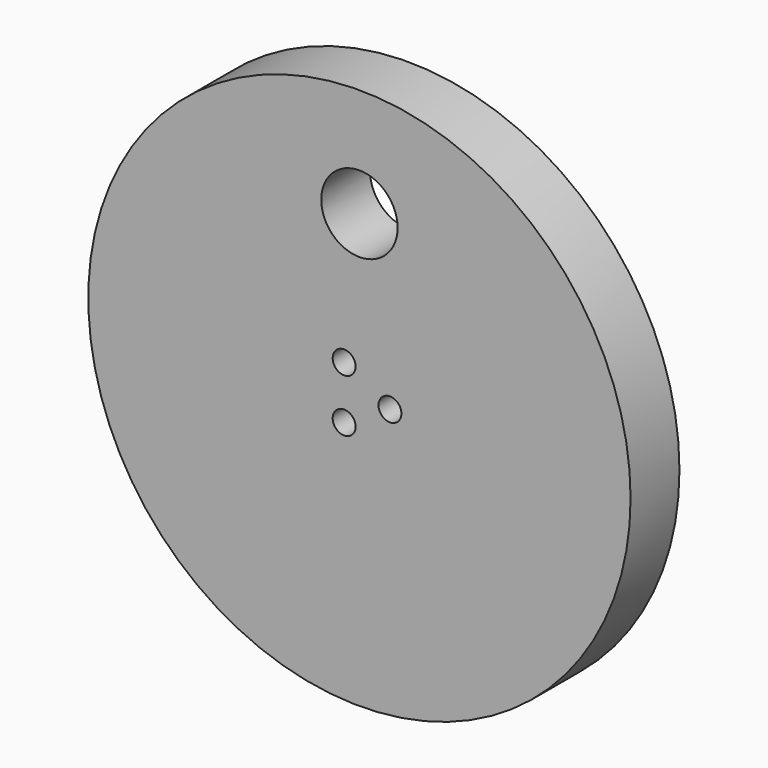
from build123d import *

# Parameters (mm, degrees)
F0_R          = 35.5
F1_DEPTH      = 18
F2_R          = 65
F2_R_2        = 10
F3_DEPTH      = 10
F4_R          = 6
F5_DEPTH      = 10
F6_SIZE       = 0.5
F7_R          = 1.5
F8_DEPTH      = 25
F8_DEPTH_BACK = 25
F9_R          = 5
F10_DEPTH     = 25
F11_SIZE      = 0.5
F12_R         = 1.5
F13_DEPTH     = 20


with BuildPart() as f1:
    # F0 (on Front) → F1 (new body)
    with BuildSketch(Plane.XZ):
        Circle(F0_R)
    extrude(amount=F1_DEPTH)

    # F2 (on face) → F3 (cut)
    with BuildSketch(Plane(origin=(0, 0, 0), x_dir=(-1, 0, 0), z_dir=(0, 1, 0))):
        Circle(F2_R)
        Circle(F2_R_2, mode=Mode.SUBTRACT)
    extrude(amount=-F3_DEPTH, mode=Mode.SUBTRACT)

    # F4 (on face) → F5 (cut)
    with BuildSketch(Plane(origin=(0, 0, 0), x_dir=(-1, 0, 0), z_dir=(0, 1, 0))):
        Circle(F4_R)
    extrude(amount=-F5_DEPTH, mode=Mode.SUBTRACT)

    # F6
    f6_edges = [f1.edges().sort_by_distance(p)[0] for p in [
        (10, -10, 0),
    ]]
    chamfer(f6_edges, length=F6_SIZE)

    # F7 (on Right) → F8 (cut, two sides)
    with BuildSketch(Plane.YZ) as f8_sk:
        with Locations((-5, 0)):
            Circle(F7_R)
    extrude(amount=F8_DEPTH, mode=Mode.SUBTRACT)
    extrude(f8_sk.sketch, amount=-F8_DEPTH_BACK, mode=Mode.SUBTRACT)

    # F9 (on Front) → F10 (cut)
    with BuildSketch(Plane.XZ):
        with Locations((0, 21.25)):
            Circle(F9_R)
    extrude(amount=F10_DEPTH, mode=Mode.SUBTRACT)

    # F11
    f11_edges = [f1.edges().sort_by_distance(p)[0] for p in [
        (6, -10, 0),
    ]]
    chamfer(f11_edges, length=F11_SIZE)

    # F12 (on Front) → F13 (cut)
    with BuildSketch(Plane.XZ):
        with Locations((-2, 3.464102)):
            Circle(F12_R)
        with Locations((-2, -3.464102)):
            Circle(F12_R)
        with Locations((4, 0)):
            Circle(F12_R)
    extrude(amount=F13_DEPTH, mode=Mode.SUBTRACT)


solid = f1.part
